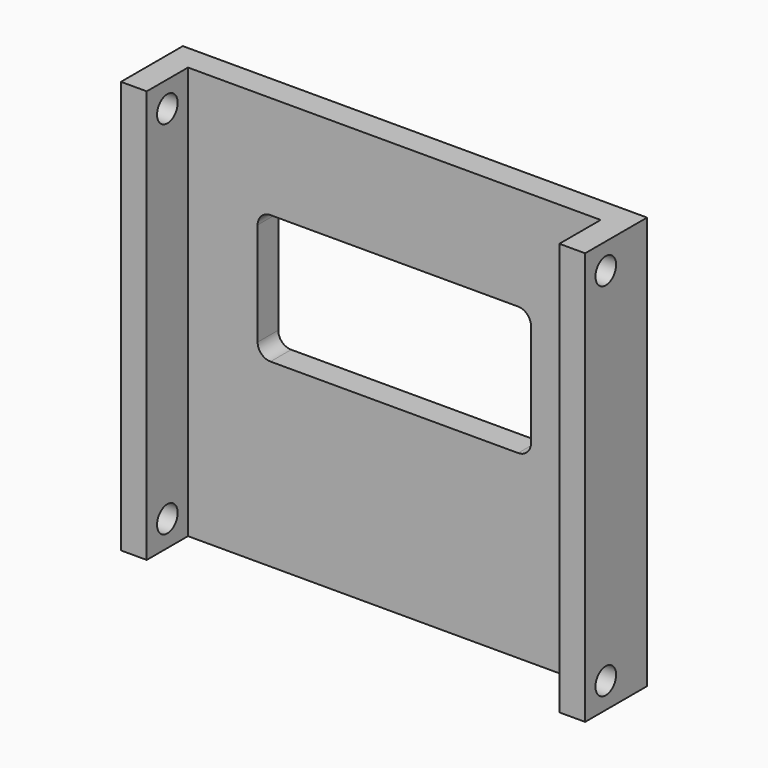
from build123d import *

# Parameters (mm, degrees)
F0_W     = 3.175
F0_H     = 50.7914833724
F1_DEPTH = 50.8
F3_DEPTH = 3.176
F4_DEPTH = 3.175
F5_DEPTH = 3.175
F6_W     = 3.175
F6_H     = 50.7914833724
F7_DEPTH = 6.35
F8_R     = 1.5875
F9_DEPTH = 63.5


with BuildPart() as f1:
    # F0 (on Right) → F1 (new body)
    with BuildSketch(Plane.YZ):
        with Locations((1.5875, 25.3957416862)):
            Rectangle(F0_W, F0_H)
    extrude(amount=F1_DEPTH)

    # F2 (on face) → F3 (cut, through all)
    with BuildSketch(Plane.XZ):
        with BuildLine():
            Line((40.64, 38.1), (10.16, 38.1))
            ThreePointArc((10.16, 38.1), (9.0374679849, 37.6350320151), (8.5725, 36.5125))
            Line((8.5725, 36.5125), (8.5725, 23.8125))
            ThreePointArc((8.5725, 23.8125), (9.0374679849, 22.6899679849), (10.16, 22.225))
            Line((10.16, 22.225), (40.64, 22.225))
            ThreePointArc((40.64, 22.225), (41.7625320151, 22.6899679849), (42.2275, 23.8125))
            Line((42.2275, 23.8125), (42.2275, 36.5125))
            ThreePointArc((42.2275, 36.5125), (41.7625320151, 37.6350320151), (40.64, 38.1))
        make_face()
    extrude(amount=-F3_DEPTH, mode=Mode.SUBTRACT)

    # F4 (add): a face of the model
    f4_faces = [f1.faces().sort_by_distance(p)[0] for p in [
        (0, 1.5875, 25.3957416862),
    ]]
    extrude(f4_faces, amount=F4_DEPTH)

    # F5 (add): a face of the model
    f5_faces = [f1.faces().sort_by_distance(p)[0] for p in [
        (50.8, 1.5875, 25.3957416862),
    ]]
    extrude(f5_faces, amount=F5_DEPTH)

    # F6 (on face) → F7 (join)
    with BuildSketch(Plane.XZ):
        with Locations((-1.5875, 25.3957416862)):
            Rectangle(F6_W, F6_H)
        with Locations((52.3875, 25.3957416862)):
            Rectangle(F6_W, F6_H)
    extrude(amount=F7_DEPTH)

    # F8 (on face) → F9 (cut)
    with BuildSketch(Plane.YZ.offset(53.975)):
        with Locations((-3.175, 47.6164833724)):
            Circle(F8_R)
        with Locations((-3.175, 3.175)):
            Circle(F8_R)
    extrude(amount=-F9_DEPTH, mode=Mode.SUBTRACT)


solid = f1.part
